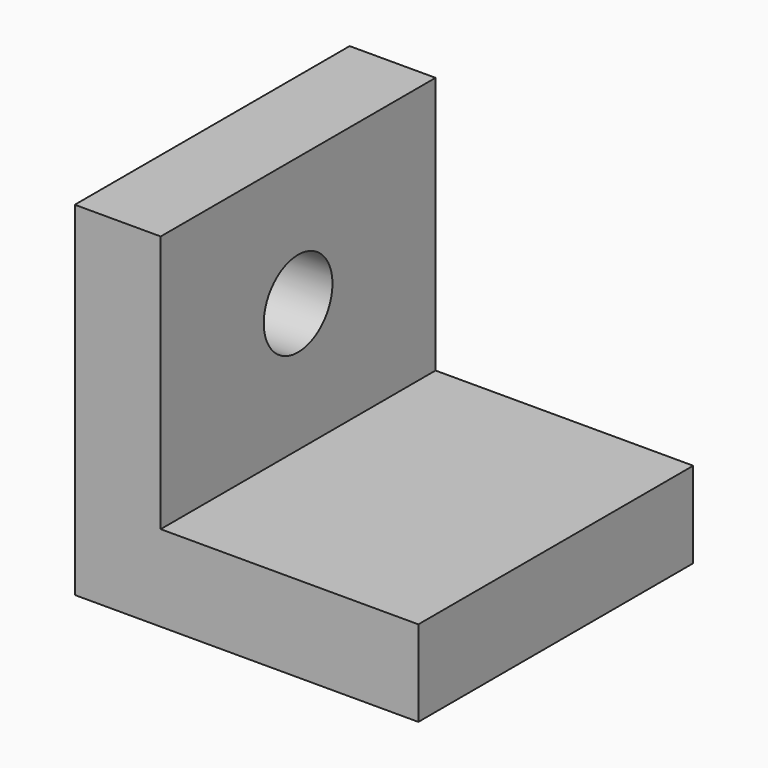
from build123d import *

# Parameters (mm, degrees)
F1_DEPTH = 50.8
F2_R     = 6.35
F3_DEPTH = 12.7


with BuildPart() as f1:
    # F0 (on Front) → F1 (new body)
    with BuildSketch(Plane.XZ):
        Polygon((-37.567358, 49.069624), (-50.267358, 49.069624), (-50.267358, -1.730376), (0.532642, -1.730376), (0.532642, 10.969624), (-37.567358, 10.969624), align=None)
    extrude(amount=-F1_DEPTH)

    # F2 (on face) → F3 (cut)
    with BuildSketch(Plane.YZ.offset(-37.567358)):
        with Locations((25.4, 30.019624)):
            Circle(F2_R)
    extrude(amount=-F3_DEPTH, mode=Mode.SUBTRACT)


solid = f1.part
